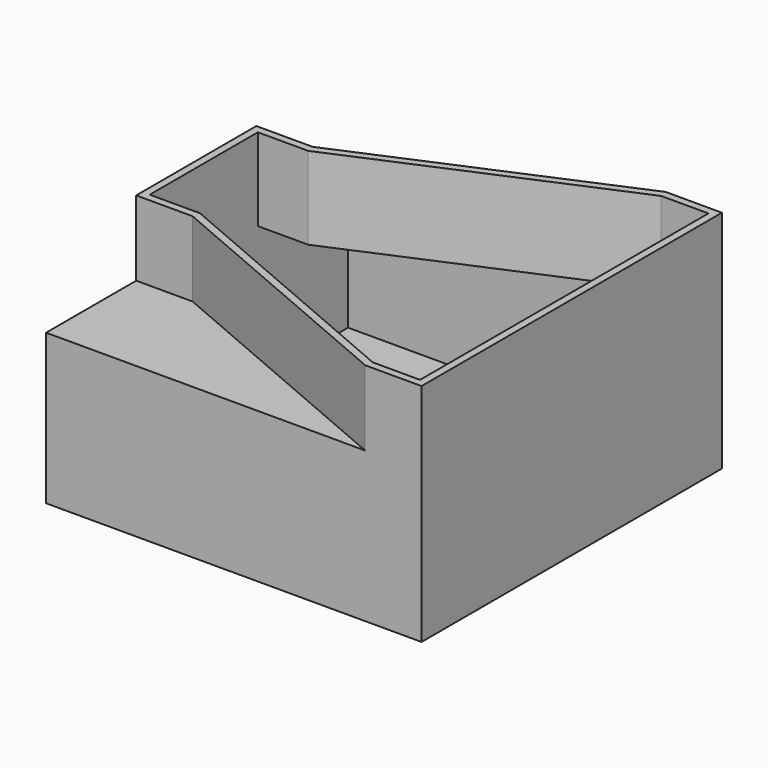
from build123d import *

# Parameters (mm, degrees)
F0_W       = 127
F0_H       = 127
F1_DEPTH   = 50.8
F2_W       = 19.05
F2_H       = 50.8
F2_H_2     = 127
F3_DEPTH   = 25.4
F3_FACE_W  = 50.8
F3_FACE_H  = 25.4
F3_FACE1_W = 127
F3_FACE1_H = 25.4
F5_T       = -2.54


with BuildPart() as f1:
    # F0 (on Top) → F1 (new body)
    with BuildSketch(Plane.XY):
        with Locations((63.5, 63.5)):
            Rectangle(F0_W, F0_H)
    extrude(amount=F1_DEPTH)

    # F2 (on face) → F3 (join)
    with BuildSketch(Plane.XY.offset(50.8)):
        with Locations((9.525, 63.5)):
            Rectangle(F2_W, F2_H)
        with Locations((117.475, 63.5)):
            Rectangle(F2_W, F2_H_2)
    extrude(amount=F3_DEPTH)

    # F3_face (on face) → F4 section 0
    with BuildSketch(Plane(origin=(19.05, 63.5, 63.5), x_dir=(0, 1, 0), z_dir=(1, 0, 0))):
        Rectangle(F3_FACE_W, F3_FACE_H)
    # F3_face1 (on face) → F4 section 1
    with BuildSketch(Plane(origin=(107.95, 63.5, 63.5), x_dir=(0, -1, 0), z_dir=(-1, 0, 0))):
        Rectangle(F3_FACE1_W, F3_FACE1_H)
    loft()

    # F5
    f5_openings = [f1.faces().sort_by_distance(p)[0] for p in [
        (74.884643, 63.5, 76.2),
    ]]
    offset(amount=F5_T, openings=f5_openings, kind=Kind.INTERSECTION)


solid = f1.part
